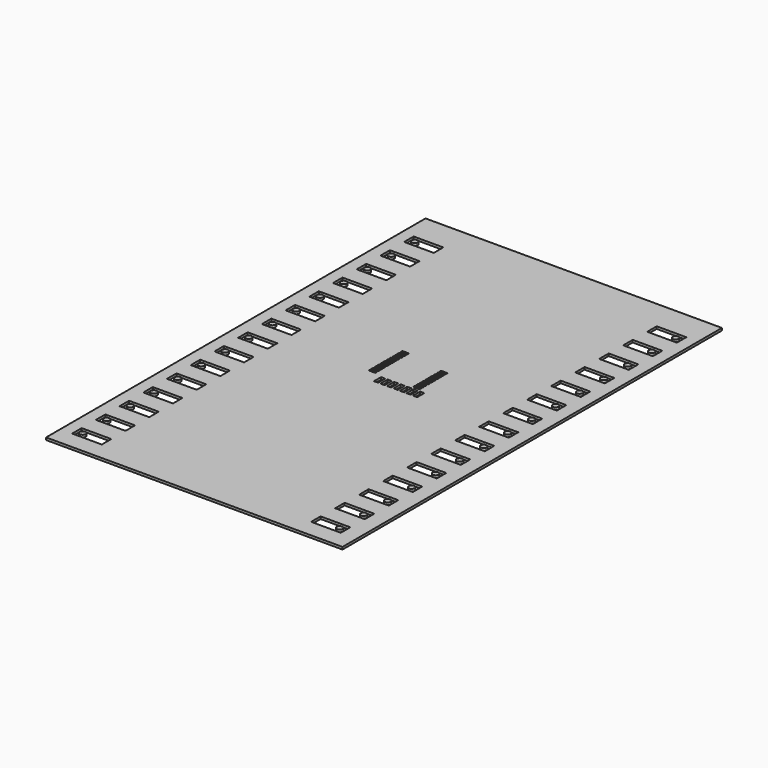
from build123d import *

# Parameters (mm, degrees)
F0_W     = 50
F0_H     = 80
F1_DEPTH = 0.4
F2_W     = 5
F2_H     = 2
F2_R     = 0.5
F3_DEPTH = 0.4
F4_W     = 1.106
F4_H     = 0.406
F4_W_2   = 0.7
F4_H_2   = 1.5
F5_DEPTH = 0.4


with BuildPart() as f1:
    # F0 (on Top) → F1 (new body)
    with BuildSketch(Plane.XY):
        Rectangle(F0_W, F0_H)
    extrude(amount=F1_DEPTH)

    # F2 (on face) → F3 (cut)
    with BuildSketch(Plane.XY.offset(0.4)):
        with Locations((-20.5, -36)):
            Rectangle(F2_W, F2_H)
        with Locations((-22, -36)):
            Circle(F2_R, mode=Mode.SUBTRACT)
        with Locations((-20.5, -31)):
            Rectangle(F2_W, F2_H)
        with Locations((-22, -31)):
            Circle(F2_R, mode=Mode.SUBTRACT)
        with Locations((-20.5, -26)):
            Rectangle(F2_W, F2_H)
        with Locations((-22, -26)):
            Circle(F2_R, mode=Mode.SUBTRACT)
        with Locations((-20.5, -21)):
            Rectangle(F2_W, F2_H)
        with Locations((-22, -21)):
            Circle(F2_R, mode=Mode.SUBTRACT)
        with Locations((-20.5, -16)):
            Rectangle(F2_W, F2_H)
        with Locations((-22, -16)):
            Circle(F2_R, mode=Mode.SUBTRACT)
        with Locations((-20.5, -11)):
            Rectangle(F2_W, F2_H)
        with Locations((-22, -11)):
            Circle(F2_R, mode=Mode.SUBTRACT)
        with Locations((-20.5, -6)):
            Rectangle(F2_W, F2_H)
        with Locations((-22, -6)):
            Circle(F2_R, mode=Mode.SUBTRACT)
        with Locations((-20.5, 4)):
            Rectangle(F2_W, F2_H)
        with Locations((-22, 4)):
            Circle(F2_R, mode=Mode.SUBTRACT)
        with Locations((-20.5, -1)):
            Rectangle(F2_W, F2_H)
        with Locations((-22, -1)):
            Circle(F2_R, mode=Mode.SUBTRACT)
        with Locations((-20.5, 9)):
            Rectangle(F2_W, F2_H)
        with Locations((-22, 9)):
            Circle(F2_R, mode=Mode.SUBTRACT)
        with Locations((-20.5, 14)):
            Rectangle(F2_W, F2_H)
        with Locations((-22, 14)):
            Circle(F2_R, mode=Mode.SUBTRACT)
        with Locations((-20.5, 19)):
            Rectangle(F2_W, F2_H)
        with Locations((-22, 19)):
            Circle(F2_R, mode=Mode.SUBTRACT)
        with Locations((-20.5, 24)):
            Rectangle(F2_W, F2_H)
        with Locations((-22, 24)):
            Circle(F2_R, mode=Mode.SUBTRACT)
        with Locations((-20.5, 29)):
            Rectangle(F2_W, F2_H)
        with Locations((-22, 29)):
            Circle(F2_R, mode=Mode.SUBTRACT)
        with Locations((-20.5, 34)):
            Rectangle(F2_W, F2_H)
        with Locations((-22, 34)):
            Circle(F2_R, mode=Mode.SUBTRACT)
        with Locations((19.806965, -35.996569)):
            Rectangle(F2_W, F2_H)
        with Locations((21.306965, -35.996569)):
            Circle(F2_R, mode=Mode.SUBTRACT)
        with Locations((19.856467, -30.996814)):
            Rectangle(F2_W, F2_H)
        with Locations((21.356467, -30.996814)):
            Circle(F2_R, mode=Mode.SUBTRACT)
        with Locations((19.90597, -25.997059)):
            Rectangle(F2_W, F2_H)
        with Locations((21.40597, -25.997059)):
            Circle(F2_R, mode=Mode.SUBTRACT)
        with Locations((19.955472, -20.997304)):
            Rectangle(F2_W, F2_H)
        with Locations((21.455472, -20.997304)):
            Circle(F2_R, mode=Mode.SUBTRACT)
        with Locations((20.004975, -15.997549)):
            Rectangle(F2_W, F2_H)
        with Locations((21.504975, -15.997549)):
            Circle(F2_R, mode=Mode.SUBTRACT)
        with Locations((20.054477, -10.997794)):
            Rectangle(F2_W, F2_H)
        with Locations((21.554477, -10.997794)):
            Circle(F2_R, mode=Mode.SUBTRACT)
        with Locations((20.10398, -5.99804)):
            Rectangle(F2_W, F2_H)
        with Locations((21.60398, -5.99804)):
            Circle(F2_R, mode=Mode.SUBTRACT)
        with Locations((20.153482, -0.998285)):
            Rectangle(F2_W, F2_H)
        with Locations((21.653482, -0.998285)):
            Circle(F2_R, mode=Mode.SUBTRACT)
        with Locations((20.202985, 4.00147)):
            Rectangle(F2_W, F2_H)
        with Locations((21.702985, 4.00147)):
            Circle(F2_R, mode=Mode.SUBTRACT)
        with Locations((20.252487, 9.001225)):
            Rectangle(F2_W, F2_H)
        with Locations((21.752487, 9.001225)):
            Circle(F2_R, mode=Mode.SUBTRACT)
        with Locations((20.30199, 14.00098)):
            Rectangle(F2_W, F2_H)
        with Locations((21.80199, 14.00098)):
            Circle(F2_R, mode=Mode.SUBTRACT)
        with Locations((20.351492, 19.000735)):
            Rectangle(F2_W, F2_H)
        with Locations((21.851492, 19.000735)):
            Circle(F2_R, mode=Mode.SUBTRACT)
        with Locations((20.400995, 24.00049)):
            Rectangle(F2_W, F2_H)
        with Locations((21.900995, 24.00049)):
            Circle(F2_R, mode=Mode.SUBTRACT)
        with Locations((20.450497, 29.000245)):
            Rectangle(F2_W, F2_H)
        with Locations((21.950497, 29.000245)):
            Circle(F2_R, mode=Mode.SUBTRACT)
        with Locations((20.5, 34)):
            Rectangle(F2_W, F2_H)
        with Locations((22, 34)):
            Circle(F2_R, mode=Mode.SUBTRACT)
    extrude(amount=-F3_DEPTH, mode=Mode.SUBTRACT)

    # F4 (on face) → F5 (cut)
    with BuildSketch(Plane.XY.offset(0.4)):
        with Locations((-3.1985, 8.363)):
            Rectangle(F4_W, F4_H)
        with Locations((-3.1985, 7.753)):
            Rectangle(F4_W, F4_H)
        with Locations((-3.1985, 7.143)):
            Rectangle(F4_W, F4_H)
        with Locations((-3.1985, 6.533)):
            Rectangle(F4_W, F4_H)
        with Locations((-3.1985, 5.923)):
            Rectangle(F4_W, F4_H)
        with Locations((-3.1985, 5.313)):
            Rectangle(F4_W, F4_H)
        with Locations((-3.1985, 4.703)):
            Rectangle(F4_W, F4_H)
        with Locations((-3.1985, 4.093)):
            Rectangle(F4_W, F4_H)
        with Locations((-3.1985, 3.483)):
            Rectangle(F4_W, F4_H)
        with Locations((-3.1985, 2.873)):
            Rectangle(F4_W, F4_H)
        with Locations((-3.1985, 2.263)):
            Rectangle(F4_W, F4_H)
        with Locations((-3.1985, 1.653)):
            Rectangle(F4_W, F4_H)
        with Locations((-0.9455, 0.25)):
            Rectangle(F4_W_2, F4_H_2)
        with Locations((0.1545, 0.25)):
            Rectangle(F4_W_2, F4_H_2)
        with Locations((1.2545, 0.25)):
            Rectangle(F4_W_2, F4_H_2)
        with Locations((2.3545, 0.25)):
            Rectangle(F4_W_2, F4_H_2)
        with Locations((3.4545, 0.25)):
            Rectangle(F4_W_2, F4_H_2)
        with Locations((4.5545, 0.25)):
            Rectangle(F4_W_2, F4_H_2)
        with Locations((5.6545, 0.25)):
            Rectangle(F4_W_2, F4_H_2)
        with Locations((4.3045, 1.653)):
            Rectangle(F4_W, F4_H)
        with Locations((4.3045, 2.263)):
            Rectangle(F4_W, F4_H)
        with Locations((4.3045, 2.873)):
            Rectangle(F4_W, F4_H)
        with Locations((4.3045, 3.483)):
            Rectangle(F4_W, F4_H)
        with Locations((4.3045, 4.093)):
            Rectangle(F4_W, F4_H)
        with Locations((4.3045, 4.703)):
            Rectangle(F4_W, F4_H)
        with Locations((4.3045, 5.313)):
            Rectangle(F4_W, F4_H)
        with Locations((4.3045, 5.923)):
            Rectangle(F4_W, F4_H)
        with Locations((4.3045, 6.533)):
            Rectangle(F4_W, F4_H)
        with Locations((4.3045, 7.143)):
            Rectangle(F4_W, F4_H)
    extrude(amount=-F5_DEPTH, mode=Mode.SUBTRACT)


solid = f1.part
